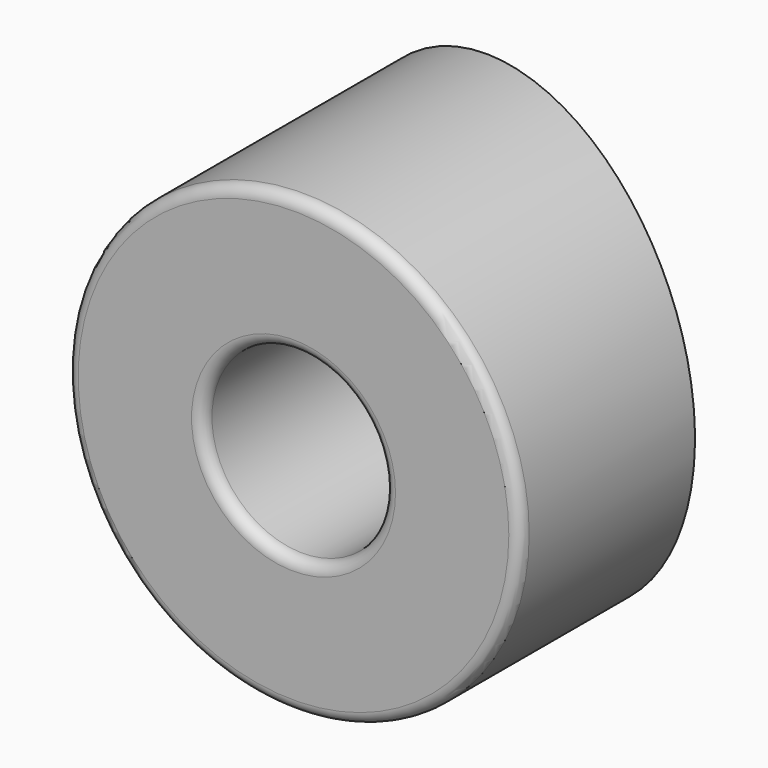
from build123d import *

# Parameters (mm, degrees)
F0_R          = 10
F0_R_2        = 4
F1_DEPTH      = 15
F2_R          = 0.5
F4_DEPTH      = 10
F4_DEPTH_BACK = 10


with BuildPart() as f1:
    # F0 (on Front) → F1 (new body)
    with BuildSketch(Plane.XZ):
        Circle(F0_R)
        Circle(F0_R_2, mode=Mode.SUBTRACT)
    extrude(amount=F1_DEPTH)

    # F2
    f2_edges = [f1.edges().sort_by_distance(p)[0] for p in [
        (-10, -15, 0),
        (-4, -15, 0),
    ]]
    fillet(f2_edges, radius=F2_R)

    # F3 (on Top) → F4 (cut, two sides)
    with BuildSketch(Plane.XY) as f4_sk:
        Polygon((10, 0), (-10, 0), (10, -5.358984), align=None)
    extrude(amount=F4_DEPTH, mode=Mode.SUBTRACT)
    extrude(f4_sk.sketch, amount=-F4_DEPTH_BACK, mode=Mode.SUBTRACT)


solid = f1.part
